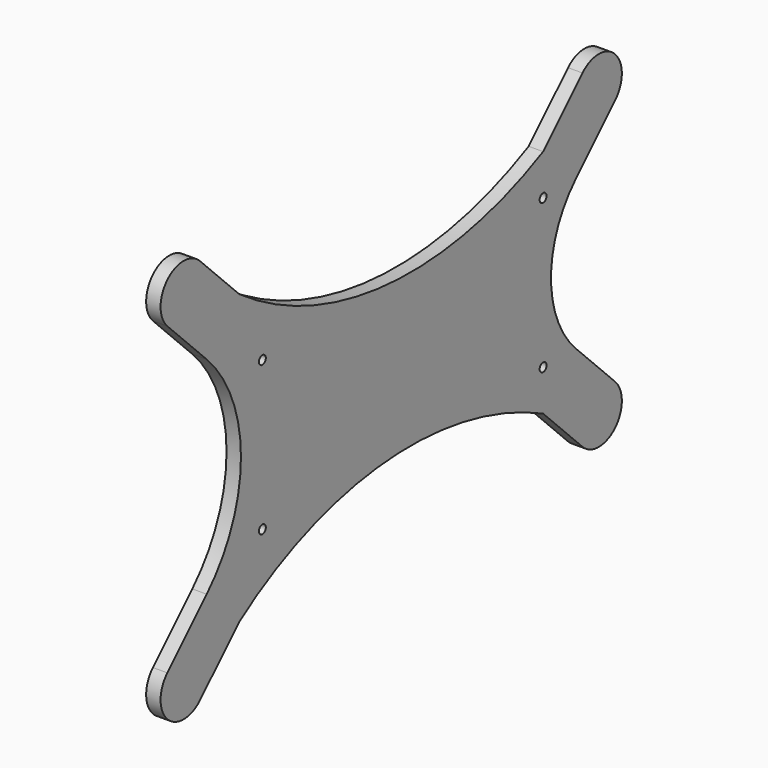
from build123d import *

# Parameters (mm, degrees)
F0_R     = 1.5
F1_DEPTH = 5


with BuildPart() as f1:
    # F0 (on Right) → F1 (new body)
    with BuildSketch(Plane.YZ):
        with BuildLine():
            Line((80.000096, 25.85796), (97.071068, 42.928932))
            ThreePointArc((97.071068, 42.928932), (97.071068, 57.071068), (82.928932, 57.071068))
            Line((82.928932, 57.071068), (65.857864, 40))
            ThreePointArc((65.857864, 40), (-1.379349, 26.831799), (-65.857864, 50))
            Line((-65.857864, 50), (-82.928932, 67.071068))
            ThreePointArc((-82.928932, 67.071068), (-97.071068, 67.071068), (-97.071068, 52.928932))
            Line((-97.071068, 52.928932), (-80.000096, 35.85796))
            ThreePointArc((-80.000096, 35.85796), (-65.147242, 0), (-80.000096, -35.85796))
            Line((-80.000096, -35.85796), (-97.071068, -52.928932))
            ThreePointArc((-97.071068, -52.928932), (-97.071068, -67.071068), (-82.928932, -67.071068))
            Line((-82.928932, -67.071068), (-65.857864, -50))
            ThreePointArc((-65.857864, -50), (-1.379349, -26.831799), (65.857864, -40))
            Line((65.857864, -40), (82.928932, -57.071068))
            ThreePointArc((82.928932, -57.071068), (97.071068, -57.071068), (97.071068, -42.928932))
            Line((97.071068, -42.928932), (80.000096, -25.85796))
            ThreePointArc((80.000096, -25.85796), (69.289378, 0), (80.000096, 25.85796))
        make_face()
        with Locations((-55.858192, -25.85796)):
            Circle(F0_R, mode=Mode.SUBTRACT)
        with BuildLine():
            ThreePointArc((64.35796, -25.85796), (65.85796, -24.35796), (67.35796, -25.85796))
            ThreePointArc((67.35796, -25.85796), (65.85796, -27.35796), (64.35796, -25.85796))
        make_face(mode=Mode.SUBTRACT)
        with Locations((-55.858192, 25.85796)):
            Circle(F0_R, mode=Mode.SUBTRACT)
        with Locations((65.85796, 25.85796)):
            Circle(F0_R, mode=Mode.SUBTRACT)
    extrude(amount=F1_DEPTH)


solid = f1.part
